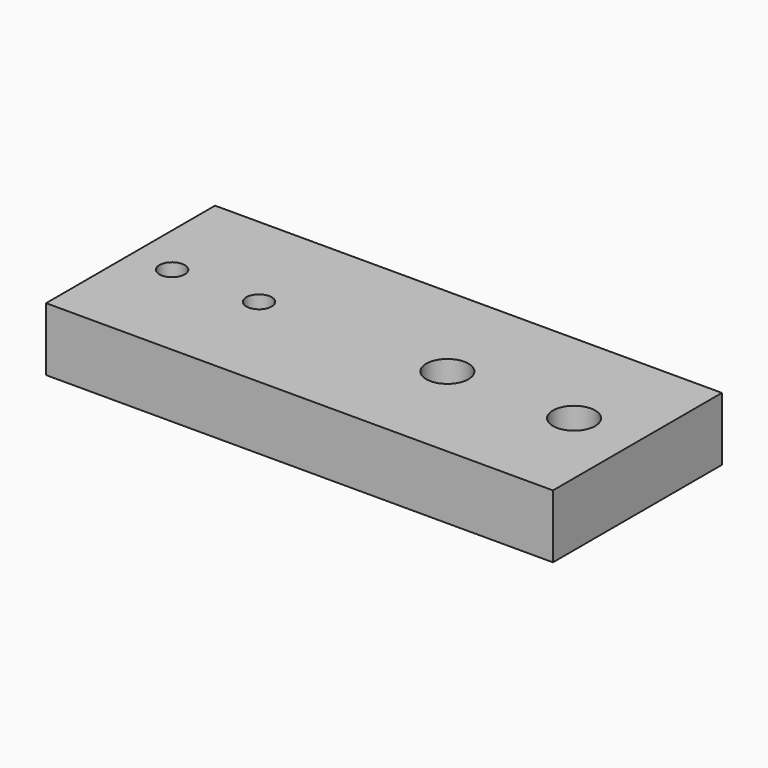
from build123d import *

# Parameters (mm, degrees)
F0_W     = 120
F0_H     = 50
F0_R     = 3
F0_R_2   = 5
F1_DEPTH = 15


with BuildPart() as f1:
    # F0 (on Top) → F1 (new body)
    with BuildSketch(Plane.XY):
        Rectangle(F0_W, F0_H)
        with Locations((-50.169233, 0)):
            Circle(F0_R, mode=Mode.SUBTRACT)
        with Locations((-29.591992, 0)):
            Circle(F0_R, mode=Mode.SUBTRACT)
        with Locations((15, 0)):
            Circle(F0_R_2, mode=Mode.SUBTRACT)
        with Locations((45, 0)):
            Circle(F0_R_2, mode=Mode.SUBTRACT)
    extrude(amount=F1_DEPTH)


solid = f1.part
